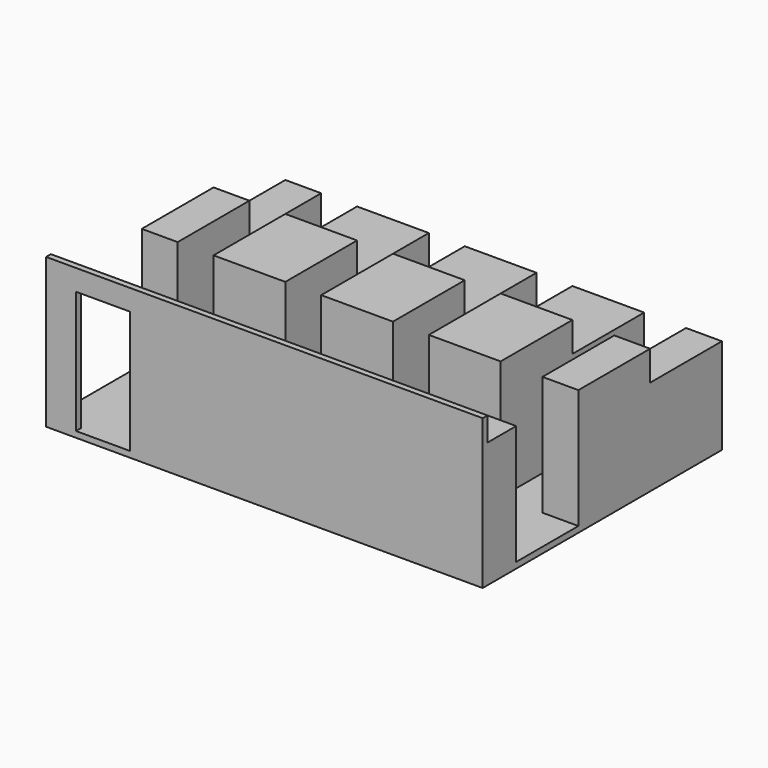
from build123d import *

# Parameters (mm, degrees)
F0_W      = 7300
F0_H      = 5000
F1_DEPTH  = 100
F2_W      = 600
F2_H      = 3000
F2_W_2    = 1200
F3_DEPTH  = 2000
F4_W      = 1500
F4_H      = 500
F5_DEPTH  = 8000
F6_W      = 7300
F6_H      = 100
F7_DEPTH  = 2400
F8_W      = 900
F8_H      = 2050
F9_DEPTH  = 100
F10_W     = 3070
F10_H     = 600
F11_W     = 2110
F11_H     = 600
F12_DEPTH = 2000


with BuildPart() as f1:
    # F0 (on Top) → F1 (new body)
    with BuildSketch(Plane.XY):
        with Locations((-4.0733702481, 977.1735011828)):
            Rectangle(F0_W, F0_H)
    extrude(amount=F1_DEPTH)

    # F2 (on face) → F3 (join)
    with BuildSketch(Plane.XY.offset(100)):
        with Locations((-3354.0733702481, 1977.1735011828)):
            Rectangle(F2_W, F2_H)
        with Locations((-1854.0733702481, 1977.1735011828)):
            Rectangle(F2_W_2, F2_H)
        with Locations((-54.0733702481, 1977.1735011828)):
            Rectangle(F2_W_2, F2_H)
        with Locations((1745.9266297519, 1977.1735011828)):
            Rectangle(F2_W_2, F2_H)
        with Locations((3345.9266297519, 1977.1735011828)):
            Rectangle(F2_W, F2_H)
    extrude(amount=F3_DEPTH)

    # F4 (on face) → F5 (cut)
    with BuildSketch(Plane(origin=(-3654.0733702481, 0, 0), x_dir=(0, -1, 0), z_dir=(-1, 0, 0))):
        with Locations((-2727.1735011828, 1850)):
            Rectangle(F4_W, F4_H)
    extrude(amount=-F5_DEPTH, mode=Mode.SUBTRACT)

    # F6 (on face) → F7 (join)
    with BuildSketch(Plane.XY.offset(100)):
        with Locations((-4.0733702481, -1472.8264988172)):
            Rectangle(F6_W, F6_H)
    extrude(amount=F7_DEPTH)

    # F8 (on face) → F9 (cut)
    with BuildSketch(Plane.XZ.offset(1522.8264988172)):
        with Locations((-2704.0733702481, 1125)):
            Rectangle(F8_W, F8_H)
    extrude(amount=-F9_DEPTH, mode=Mode.SUBTRACT)

    # F10 (on face) + F11 (on face) → F12 (join)
    with BuildSketch(Plane.XY.offset(100)):
        with Locations((2110.9266297519, -1122.8264988172)):
            Rectangle(F10_W, F10_H)
    with BuildSketch(Plane.XY.offset(100)):
        with Locations((-529.0733702481, -1122.8264988172)):
            Rectangle(F11_W, F11_H)
    extrude(amount=F12_DEPTH)


solid = f1.part
